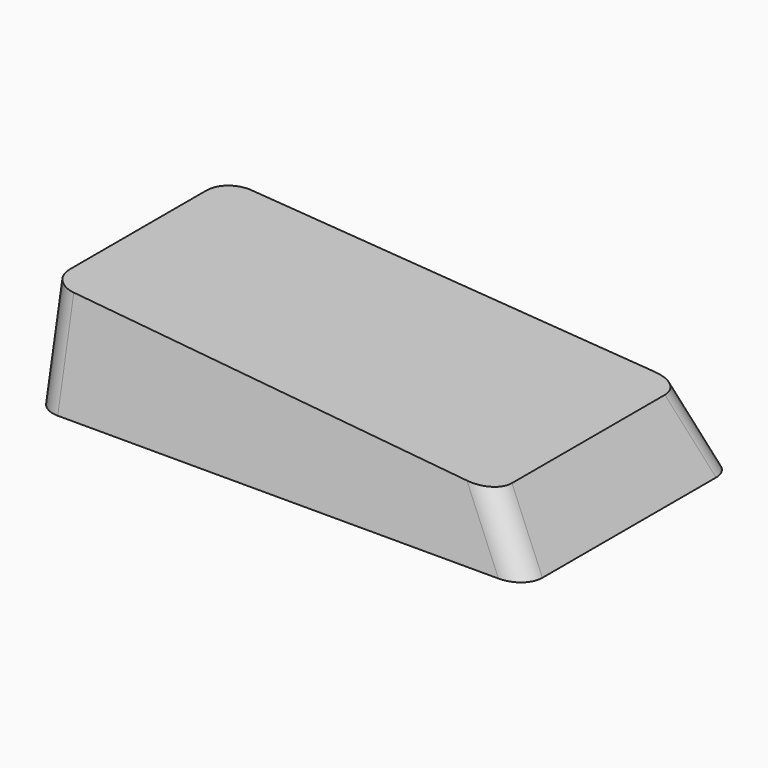
from build123d import *

# Parameters (mm, degrees)
F0_W      = 120
F0_H      = 64
F1_DEPTH  = 25
F3_DEPTH  = 64.001
F5_DEPTH  = 64.001
F7_DEPTH  = 120.001
F8_T      = -2
F9_R      = 3.259803
F10_DEPTH = 25
F12_DEPTH = 3.5
F13_SIZE  = 2
F14_R     = 6


with BuildPart() as f1:
    # F0 (on Top) → F1 (new body)
    with BuildSketch(Plane.XY):
        Rectangle(F0_W, F0_H)
    extrude(amount=F1_DEPTH)

    # F2 (on face) → F3 (cut, through all)
    with BuildSketch(Plane.XZ.offset(32)):
        Polygon((60, 25), (-60, 25), (60, 15), align=None)
    extrude(amount=-F3_DEPTH, mode=Mode.SUBTRACT)

    # F4 (on face) → F5 (cut, through all)
    with BuildSketch(Plane.XZ.offset(32)):
        Polygon((50.034542, 15.830455), (60, 0), (60, 15), align=None)
    extrude(amount=-F5_DEPTH, mode=Mode.SUBTRACT)

    # F6 (on face) → F7 (cut, through all)
    with BuildSketch(Plane(origin=(-60, 0, 0), x_dir=(0, -1, 0), z_dir=(-1, 0, 0))):
        Polygon((-27, 25), (-32, 25), (-32, 0), align=None)
        Polygon((32, 25), (27, 25), (32, 0), align=None)
    extrude(amount=-F7_DEPTH, mode=Mode.SUBTRACT)

    # F8
    f8_openings = [f1.faces().sort_by_distance(p)[0] for p in [
        (0, 0, 0),
    ]]
    offset(amount=F8_T, openings=f8_openings)

    # F9 (on face) → F10 (cut)
    with BuildSketch(Plane(origin=(-60, 0, 0), x_dir=(0, -1, 0), z_dir=(-1, 0, 0))):
        Circle(F9_R)
    extrude(amount=-F10_DEPTH, mode=Mode.SUBTRACT)

    # F11 (on face) → F12 (join)
    with BuildSketch(Plane(origin=(0, 0, 0), x_dir=(1, 0, 0), z_dir=(0, 0, -1))):
        Polygon((-51, 29.960392), (-58, 29.960392), (-58, 22.960392), align=None)
        Polygon((57.63671, 22.587352), (57.63671, 29.960392), (50.568968, 29.960392), align=None)
        Polygon((57.63671, -22.587352), (50.568968, -29.960392), (57.63671, -29.960392), align=None)
        Polygon((-58, -22.960392), (-58, -29.960392), (-51, -29.960392), align=None)
    extrude(amount=-F12_DEPTH)

    # F13
    f13_edges = [f1.edges().sort_by_distance(p)[0] for p in [
        (-54.85, 26.110392, 3.5),
        (53.336701, -27.073104, 3.5),
        (-54.85, -26.110392, 3.5),
        (53.336701, 27.073104, 3.5),
    ]]
    chamfer(f13_edges, length=F13_SIZE)

    # F14
    f14_edges = [f1.edges().sort_by_distance(p)[0] for p in [
        (55.017271, -30.416955, 7.915227),
        (55.017271, 30.416955, 7.915227),
        (-60, -29.5, 12.5),
        (-60, 29.5, 12.5),
    ]]
    fillet(f14_edges, radius=F14_R)


solid = f1.part
